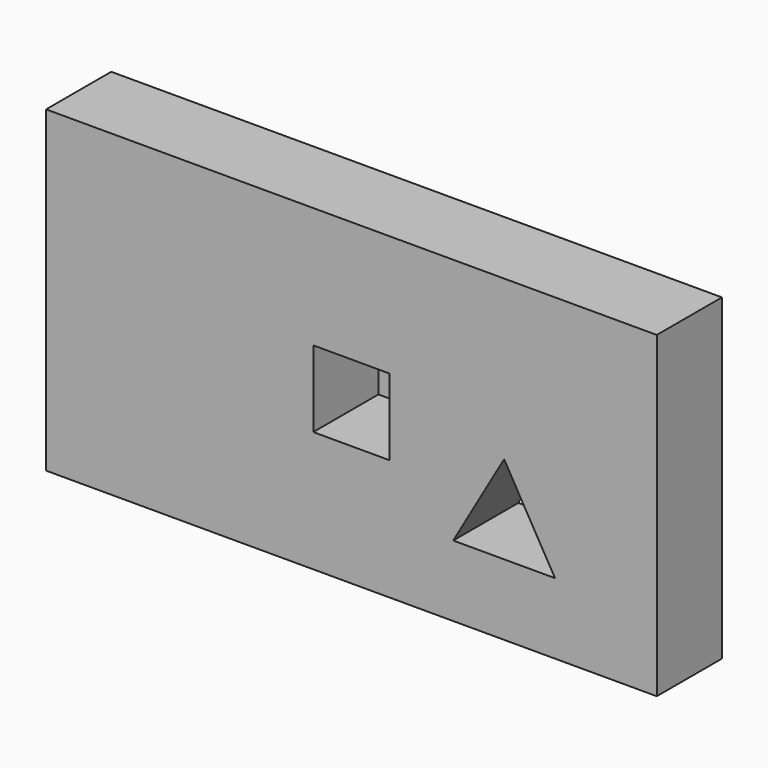
from build123d import *

# Parameters (mm, degrees)
F0_W     = 152.4
F0_H     = 79.375
F0_R     = 12.7
F1_DEPTH = 20.32
F2_DEPTH = 31.75
F3_DEPTH = 31.75
F4_DEPTH = 20.32
F5_DEPTH = 25.4


with BuildPart() as f1:
    # F0 (on Front) → F1 (new body)
    with BuildSketch(Plane.XZ):
        with Locations((-31.75, 0)):
            Rectangle(F0_W, F0_H)
        Polygon((-6.35, -21.997045), (6.35, 0), (19.05, -21.997045), align=None, mode=Mode.SUBTRACT)
        with Locations((-82.55, 0)):
            Circle(F0_R, mode=Mode.SUBTRACT)
        Polygon((-22.225, 9.525), (-22.225, 0), (-22.225, -9.525), (-41.275, -9.525), (-41.275, 0), (-41.275, 9.525), align=None, mode=Mode.SUBTRACT)
        with Locations((-82.55, 0)):
            Circle(F0_R)
        Polygon((-31.75, 0), (-22.225, 0), (-22.225, 9.525), (-41.275, 9.525), (-41.275, 0), align=None)
        Polygon((-22.225, -9.525), (-22.225, 0), (-31.75, 0), (-41.275, 0), (-41.275, -9.525), align=None)
        Polygon((19.05, -21.997045), (6.35, 0), (-6.35, -21.997045), align=None)
    extrude(amount=F1_DEPTH)

    # F0 (on Front) → F2 (join)
    with BuildSketch(Plane.XZ):
        with Locations((-82.55, 0)):
            Circle(F0_R)
    extrude(amount=-F2_DEPTH)

    # F0 (on Front) → F3 (join)
    with BuildSketch(Plane.XZ):
        Polygon((-31.75, 0), (-22.225, 0), (-22.225, 9.525), (-41.275, 9.525), (-41.275, 0), align=None)
        Polygon((-22.225, -9.525), (-22.225, 0), (-31.75, 0), (-41.275, 0), (-41.275, -9.525), align=None)
    extrude(amount=-F3_DEPTH)

    # F0 (on Front) → F4 (cut)
    with BuildSketch(Plane.XZ):
        Polygon((-31.75, 0), (-22.225, 0), (-22.225, 9.525), (-41.275, 9.525), (-41.275, 0), align=None)
        Polygon((-22.225, -9.525), (-22.225, 0), (-31.75, 0), (-41.275, 0), (-41.275, -9.525), align=None)
    extrude(amount=F4_DEPTH, mode=Mode.SUBTRACT)

    # F0 (on Front) → F5 (cut)
    with BuildSketch(Plane.XZ):
        Polygon((19.05, -21.997045), (6.35, 0), (-6.35, -21.997045), align=None)
    extrude(amount=F5_DEPTH, mode=Mode.SUBTRACT)


solid = f1.part
